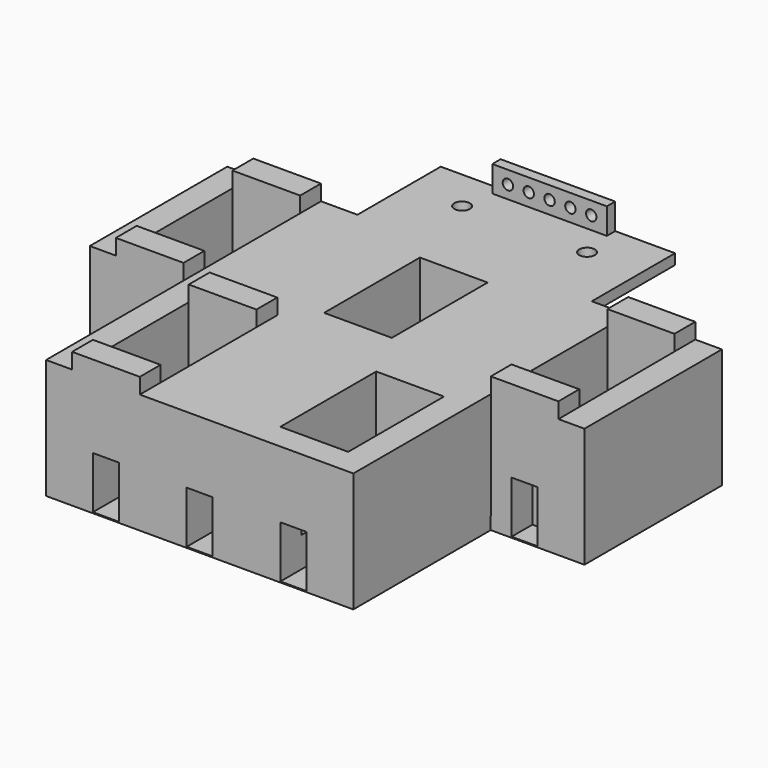
from build123d import *

# Parameters (mm, degrees)
F0_W      = 50
F0_H      = 16
F1_DEPTH  = 4
F2_W      = 95
F2_H      = 23
F3_DEPTH  = 33
F4_W      = 13
F4_H      = 23
F5_DEPTH  = 17
F6_DEPTH  = 14
F7_DEPTH  = 14
F8_W      = 13
F8_H      = 5
F8_W_2    = 12.8848927021
F9_DEPTH  = 3
F10_W     = 50
F10_H     = 16
F11_DEPTH = 4
F13_DEPTH = 20
F15_DEPTH = 33
F17_DEPTH = 14
F18_DEPTH = 17
F19_W     = 13
F19_H     = 5
F20_DEPTH = 3
F21_R     = 1.5
F22_DEPTH = 23.001
F23_W     = 5
F23_H     = 10
F24_DEPTH = 38
F25_W     = 22
F25_H     = 5
F25_R     = 1
F26_DEPTH = 2


with BuildPart() as f1:
    # F0 (on Front) → F1 (new body)
    with BuildSketch(Plane.XZ):
        Rectangle(F0_W, F0_H)
    extrude(amount=F1_DEPTH)

    # F2 (on face) → F3 (join)
    with BuildSketch(Plane.XZ.offset(4)):
        Rectangle(F2_W, F2_H)
    extrude(amount=F3_DEPTH)

    # F4 (on face) → F5 (cut)
    with BuildSketch(Plane.XY.offset(11.5)):
        with Locations((0, -20.5)):
            Rectangle(F4_W, F4_H)
    extrude(amount=-F5_DEPTH, mode=Mode.SUBTRACT)

    # F4 (on face) → F6 (cut)
    with BuildSketch(Plane.XY.offset(11.5)):
        Polygon((-29.5, -9), (-35.269472748, -9), (-42.5, -9), (-42.5, -21.713828668), (-42.5, -32), (-35.5076789856, -32), (-29.5, -32), (-29.5, -21.9520311803), align=None)
    extrude(amount=-F6_DEPTH, mode=Mode.SUBTRACT)

    # F4 (on face) → F7 (cut)
    with BuildSketch(Plane.XY.offset(11.5)):
        Polygon((42.4793356239, -31.9733636137), (42.3848927021, -9), (29.5, -9), (29.5, -22.5475411862), (29.5, -32.026721337), (36, -32), align=None)
    extrude(amount=-F7_DEPTH, mode=Mode.SUBTRACT)

    # F8 (on face) → F9 (join)
    with BuildSketch(Plane.XY.offset(11.5)):
        with Locations((-36, -6.5)):
            Rectangle(F8_W, F8_H)
        with Locations((-36, -34.5)):
            Rectangle(F8_W, F8_H)
        with Locations((35.9424463511, -6.5)):
            Rectangle(F8_W_2, F8_H)
        Polygon((29.5, -32.026721337), (29.5204450239, -37), (42.5, -37), (42.4793356239, -31.9733636137), align=None)
    extrude(amount=F9_DEPTH)

    # F10 (on face) → F11 (cut, through all)
    with BuildSketch(Plane(origin=(0, 0, 0), x_dir=(-1, 0, 0), z_dir=(0, 1, 0))):
        Rectangle(F10_W, F10_H)
    extrude(amount=-F11_DEPTH, mode=Mode.SUBTRACT)

    # F12 (on face) → F13 (join)
    with BuildSketch(Plane(origin=(0, -4, 0), x_dir=(-1, 0, 0), z_dir=(0, 1, 0))):
        Polygon((22.5, 9.5), (22.5, 11.5), (0, 11.5), (-22.5, 11.5), (-22.5, 9.5), align=None)
    extrude(amount=F13_DEPTH)

    # F14 (on face) → F15 (join)
    with BuildSketch(Plane.XZ.offset(37)):
        Polygon((-29.5, -11.5), (0, -11.5), (29.5, -11.5), (29.5204450239, 11.5), (-29.5, 11.5), align=None)
    extrude(amount=F15_DEPTH)

    # F16 (on face) → F17 (cut)
    with BuildSketch(Plane.XY.offset(11.5)):
        Polygon((-24.5, -65), (-17.6737755537, -65), (-11.5, -65), (-11.5, -54.9432039261), (-11.5, -42), (-18.178511411, -42), (-24.5, -42), (-24.5, -55.7003095746), align=None)
    extrude(amount=-F17_DEPTH, mode=Mode.SUBTRACT)

    # F16 (on face) → F18 (cut)
    with BuildSketch(Plane.XY.offset(11.5)):
        Polygon((24.5204450239, -42), (17.1529948711, -42), (11.5, -42), (11.5, -54.9432039261), (11.5, -65), (19.4243043661, -65), (24.5204450239, -65), (24.5204450239, -53.5), align=None)
    extrude(amount=-F18_DEPTH, mode=Mode.SUBTRACT)

    # F19 (on face) → F20 (join)
    with BuildSketch(Plane.XY.offset(11.5)):
        with Locations((-18, -67.5)):
            Rectangle(F19_W, F19_H)
        with Locations((-18, -39.5)):
            Rectangle(F19_W, F19_H)
    extrude(amount=F20_DEPTH)

    # F21 (on face) → F22 (cut, through all)
    with BuildSketch(Plane.XY.offset(11.5)):
        with Locations((-12, 8)):
            Circle(F21_R)
        with Locations((12, 8)):
            Circle(F21_R)
    extrude(amount=-F22_DEPTH, mode=Mode.SUBTRACT)

    # F23 (on face) → F24 (cut, through all)
    with BuildSketch(Plane.XZ.offset(70)):
        with Locations((-18, -6.3054482453)):
            Rectangle(F23_W, F23_H)
        with Locations((0, -6.3054482453)):
            Rectangle(F23_W, F23_H)
        with Locations((18.0102225119, -6.3054482453)):
            Rectangle(F23_W, F23_H)
        with Locations((-36, -6.3054482453)):
            Rectangle(F23_W, F23_H)
        with Locations((36, -6.3054482453)):
            Rectangle(F23_W, F23_H)
    extrude(amount=-F24_DEPTH, mode=Mode.SUBTRACT)

    # F25 (on face) → F26 (join)
    with BuildSketch(Plane(origin=(0, 16, 0), x_dir=(-1, 0, 0), z_dir=(0, 1, 0))):
        with Locations((0, 14)):
            Rectangle(F25_W, F25_H)
        with Locations((-8, 14)):
            Circle(F25_R, mode=Mode.SUBTRACT)
        with Locations((-4, 14)):
            Circle(F25_R, mode=Mode.SUBTRACT)
        with Locations((0, 14)):
            Circle(F25_R, mode=Mode.SUBTRACT)
        with Locations((4, 14)):
            Circle(F25_R, mode=Mode.SUBTRACT)
        with Locations((8, 14)):
            Circle(F25_R, mode=Mode.SUBTRACT)
    extrude(amount=-F26_DEPTH)


solid = f1.part
